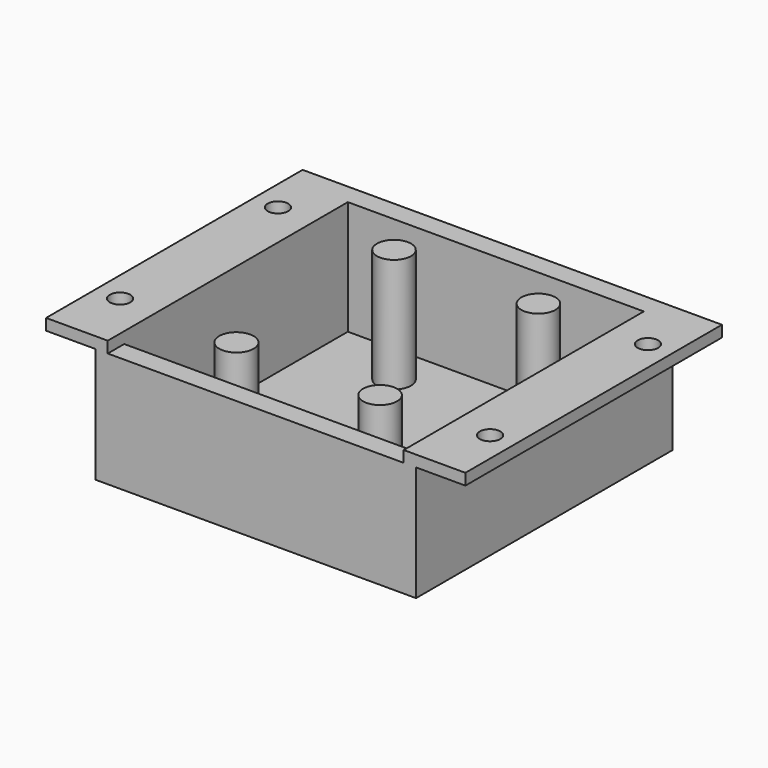
from build123d import *

# Parameters (mm, degrees)
F1_DEPTH = 39
F2_R     = 2.5
F3_DEPTH = 2.748386896
F4_R     = 4.1378331658
F4_R_2   = 4.1919705303
F5_DEPTH = 27.748386896
F6_W     = 71.9977971367
F6_H     = 25
F7_DEPTH = 5
F8_W     = 71.9977971367
F8_H     = 27.748386896
F9_DEPTH = 5


with BuildPart() as f1:
    # F0 (on Front) → F1 (new body, symmetric)
    with BuildSketch(Plane.XZ):
        Polygon((33.0240737289, -6.6249261405), (-2.9748248395, -6.6249261405), (-2.9748248395, -9.6249261405), (36.0251751605, -9.6249261405), (36.0251751605, 18.3750738595), (48.0240737289, 18.3750738595), (48.0240737289, 21.1234607555), (33.0240737289, 21.1234607555), align=None)
        Polygon((-2.9748248395, -9.6249261405), (-2.9748248395, -6.6249261405), (-38.9737234078, -6.6249261405), (-38.9737234078, 21.1234607555), (-53.9737234078, 21.1234607555), (-53.9737234078, 18.3750738595), (-41.9748248395, 18.3750738595), (-41.9748248395, -9.6249261405), align=None)
    extrude(amount=F1_DEPTH, both=True)

    # F2 (on face) → F3 (cut, through all)
    with BuildSketch(Plane.XY.offset(21.1234607555)):
        with Locations((42.0246244447, -24)):
            Circle(F2_R)
        with Locations((42.0246244447, 24)):
            Circle(F2_R)
        with Locations((-47.9742741236, 24)):
            Circle(F2_R)
        with Locations((-47.9742741236, -24)):
            Circle(F2_R)
    extrude(amount=-F3_DEPTH, mode=Mode.SUBTRACT)

    # F4 (on face) → F5 (join, through all)
    with BuildSketch(Plane.XY.offset(-6.6249261405)):
        with Locations((15.3820728883, 24.0051727742)):
            Circle(F4_R)
        with Locations((15.3820728883, -24.139655754)):
            Circle(F4_R)
        with Locations((-19.8524110019, 24.139655754)):
            Circle(F4_R)
        with Locations((-19.4489639252, -24.2741387337)):
            Circle(F4_R_2)
    extrude(amount=F5_DEPTH)

    # F6 (on face) → F7 (join)
    with BuildSketch(Plane.XZ.offset(39)):
        with Locations((-2.9748248395, 5.8750738595)):
            Rectangle(F6_W, F6_H)
    extrude(amount=-F7_DEPTH)

    # F8 (on face) → F9 (join)
    with BuildSketch(Plane(origin=(0, 39, 0), x_dir=(-1, 0, 0), z_dir=(0, 1, 0))):
        with Locations((2.9748248395, 7.2492673075)):
            Rectangle(F8_W, F8_H)
    extrude(amount=-F9_DEPTH)


solid = f1.part
